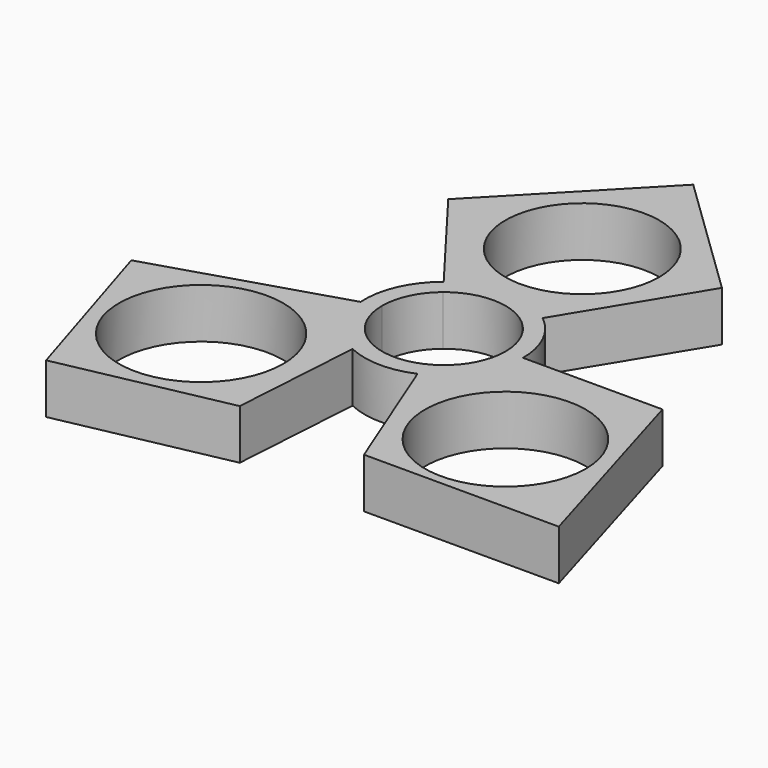
from build123d import *

# Parameters (mm, degrees)
F0_R     = 14.3104700271
F0_R_2   = 13.705017098
F0_R_3   = 14.6386867947
F1_DEPTH = 8.89


with BuildPart() as f1:
    # F0 (on Top) → F1 (new body)
    with BuildSketch(Plane.XY):
        with BuildLine():
            Line((14.1010289764, 0), (10.9982, 0))
            ThreePointArc((10.9982, 0), (9.2323771111, -5.9769236333), (4.501934044, -10.0345898324))
            Line((4.501934044, -10.0345898324), (5.6481270595, -12.9204364831))
            ThreePointArc((5.6481270595, -12.9204364831), (11.8000724896, -7.7199292376), (14.1010289764, 0))
        make_face()
        with BuildLine():
            ThreePointArc((7.1165313359, 8.3854269412), (9.9807173635, 4.6201389753), (10.9982, 0))
            Line((10.9982, 0), (14.1010289764, 0))
            ThreePointArc((14.1010289764, 0), (12.6913256249, 6.145671003), (8.744076354, 11.0625560749))
            Line((8.744076354, 11.0625560749), (7.1165313359, 8.3854269412))
        make_face()
        with BuildLine():
            ThreePointArc((-6.9511424853, 8.5230288859), (0.1075729602, 10.997673904), (7.1165313359, 8.3854269412))
            Line((7.1165313359, 8.3854269412), (8.744076354, 11.0625560749))
            ThreePointArc((8.744076354, 11.0625560749), (-0.0536718545, 14.1009268322), (-8.8280358001, 10.9956719716))
            Line((-8.8280358001, 10.9956719716), (-6.9511424853, 8.5230288859))
        make_face()
        with BuildLine():
            Line((5.6481270595, -12.9204364831), (4.501934044, -10.0345898324))
            ThreePointArc((4.501934044, -10.0345898324), (-0.776216636, -10.9707744017), (-5.8699695309, -9.3007451823))
            Line((-5.8699695309, -9.3007451823), (-6.0899548913, -12.7181550398))
            ThreePointArc((-6.0899548913, -12.7181550398), (-0.2429658491, -14.0989356261), (5.6481270595, -12.9204364831))
        make_face()
        with BuildLine():
            Line((38.9426471795, 0), (14.1010289764, 0))
            ThreePointArc((14.1010289764, 0), (11.8000724896, -7.7199292376), (5.6481270595, -12.9204364831))
            Line((5.6481270595, -12.9204364831), (15.0515772402, -36.5961305797))
            Line((15.0515772402, -36.5961305797), (49.751079436, -36.5961305797))
            Line((49.751079436, -36.5961305797), (38.9426471795, 0))
        make_face()
        with Locations((27.4862796068, -20.6535533071)):
            Circle(F0_R, mode=Mode.SUBTRACT)
        with BuildLine():
            ThreePointArc((-10.9982, 0), (-9.9350505414, 4.7175389748), (-6.9511424853, 8.5230288859))
            Line((-6.9511424853, 8.5230288859), (-8.8280358001, 10.9956719716))
            ThreePointArc((-8.8280358001, 10.9956719716), (-12.9130983072, 5.664883962), (-14.0689280327, -0.9509375391))
            Line((-14.0689280327, -0.9509375391), (-10.9982, 0))
        make_face()
        with BuildLine():
            ThreePointArc((-8.8280358001, 10.9956719716), (-0.0536718545, 14.1009268322), (8.744076354, 11.0625560749))
            Line((8.744076354, 11.0625560749), (22.5340425968, 33.7455049157))
            Line((22.5340425968, 33.7455049157), (0, 55.5290480415))
            Line((0, 55.5290480415), (-23.8804249666, 30.8258805944))
            Line((-23.8804249666, 30.8258805944), (-8.8280358001, 10.9956719716))
        make_face()
        with Locations((0, 30.8258805944)):
            Circle(F0_R_2, mode=Mode.SUBTRACT)
        with BuildLine():
            Line((-6.0899548913, -12.7181550398), (-5.8699695309, -9.3007451823))
            ThreePointArc((-5.8699695309, -9.3007451823), (-9.631186379, -5.3104286242), (-10.9982, 0))
            Line((-10.9982, 0), (-14.0689280327, -0.9509375391))
            ThreePointArc((-14.0689280327, -0.9509375391), (-11.6709893374, -7.9137239073), (-6.0899548913, -12.7181550398))
        make_face()
        with BuildLine():
            Line((-7.5859767385, -35.9584279358), (-6.0899548913, -12.7181550398))
            ThreePointArc((-6.0899548913, -12.7181550398), (-11.6709893374, -7.9137239073), (-14.0689280327, -0.9509375391))
            Line((-14.0689280327, -0.9509375391), (-46.8031354249, -11.0880080611))
            Line((-46.8031354249, -11.0880080611), (-37.2379720211, -42.0166067779))
            Line((-37.2379720211, -42.0166067779), (-7.5859767385, -35.9584279358))
        make_face()
        with Locations((-25.4409406334, -22.2478117794)):
            Circle(F0_R_3, mode=Mode.SUBTRACT)
    extrude(amount=F1_DEPTH)


solid = f1.part
